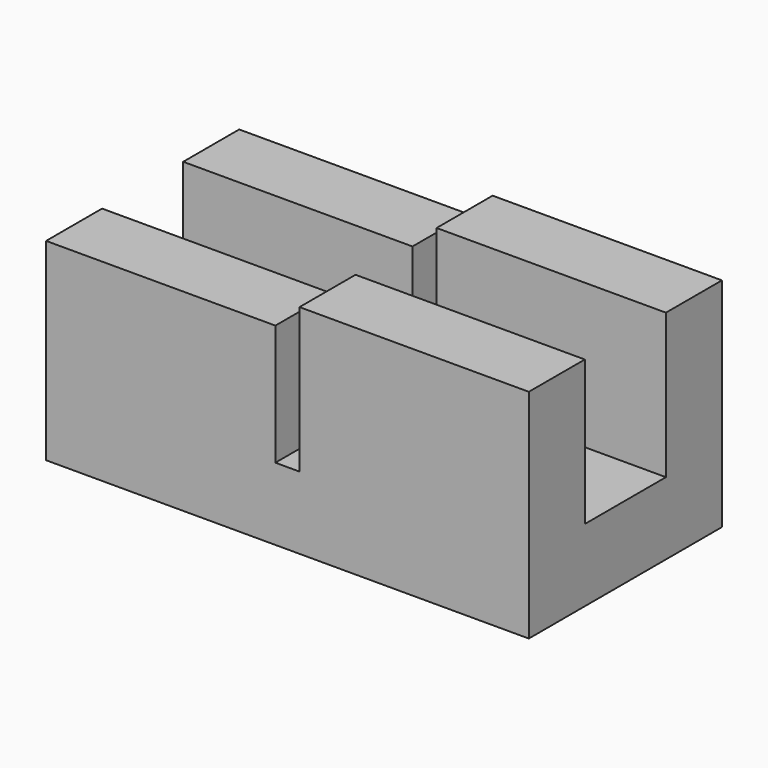
from build123d import *

# Parameters (mm, degrees)
BOX023_W     = 10
BOX023_H     = 10
BOX023_DEPTH = 10
BOX022_W     = 1
BOX022_H     = 10
BOX022_DEPTH = 10
BOX_W        = 20
BOX_H        = 4.2
BOX_DEPTH    = 10
BOX021_W     = 20
BOX021_H     = 10
BOX021_DEPTH = 9


with BuildPart() as cube023:
    # Box023 → Box023 (new body)
    with BuildSketch(Plane(origin=(0, -5, 8), x_dir=(1, 0, 0), z_dir=(0, 0, 1))):
        with Locations((5, 5)):
            Rectangle(BOX023_W, BOX023_H)
    extrude(amount=BOX023_DEPTH)


with BuildPart() as cube022:
    # Box022 → Box022 (new body)
    with BuildSketch(Plane(origin=(9.5, -5, 3), x_dir=(1, 0, 0), z_dir=(0, 0, 1))):
        with Locations((0.5, 5)):
            Rectangle(BOX022_W, BOX022_H)
    extrude(amount=BOX022_DEPTH)


with BuildPart() as cube:
    # Box → Box (new body)
    with BuildSketch(Plane(origin=(0, -2.1, 3), x_dir=(1, 0, 0), z_dir=(0, 0, 1))):
        with Locations((10, 2.1)):
            Rectangle(BOX_W, BOX_H)
    extrude(amount=BOX_DEPTH)


with BuildPart() as cut048:
    # Box021 → Box021 (new body)
    with BuildSketch(Plane(origin=(0, -5, 0), x_dir=(1, 0, 0), z_dir=(0, 0, 1))):
        with Locations((10, 5)):
            Rectangle(BOX021_W, BOX021_H)
    extrude(amount=BOX021_DEPTH)

    # Cut046: cut Cube
    add(cube.part, mode=Mode.SUBTRACT)

    # Cut047: cut Cube022
    add(cube022.part, mode=Mode.SUBTRACT)

    # Cut048: cut Cube023
    add(cube023.part, mode=Mode.SUBTRACT)


solid = cut048.part
